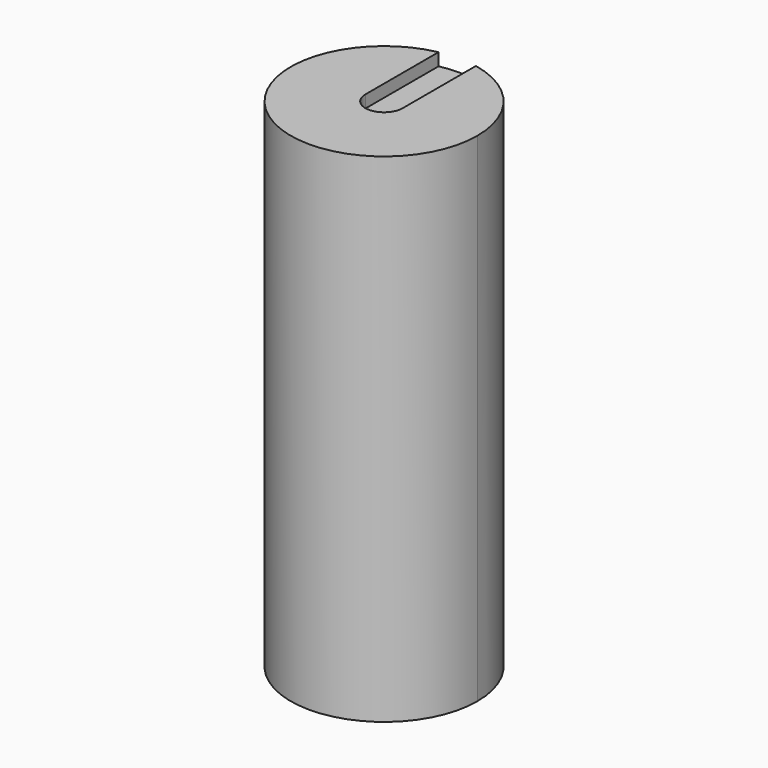
from build123d import *

# Parameters (mm, degrees)
F1_DEPTH = 40
F2_DEPTH = 1
F4_DEPTH = 1


with BuildPart() as f1:
    # F0 (on Top) → F1 (new body)
    with BuildSketch(Plane.XY):
        with BuildLine():
            ThreePointArc((-1.5, 7.3484692283), (-4.7434164903, -5.8094750193), (7.5, 0))
            ThreePointArc((7.5, 0), (5.8094750193, 4.7434164903), (1.5, 7.3484692283))
            Line((1.5, 7.3484692283), (1.5, 0))
            ThreePointArc((1.5, 0), (0, -1.5), (-1.5, 0))
            Line((-1.5, 0), (-1.5, 7.3484692283))
        make_face()
        with BuildLine():
            Line((1.5, 0), (1.5, 7.3484692283))
            ThreePointArc((1.5, 7.3484692283), (0, 7.5), (-1.5, 7.3484692283))
            Line((-1.5, 7.3484692283), (-1.5, 0))
            ThreePointArc((-1.5, 0), (0, -1.5), (1.5, 0))
        make_face()
    extrude(amount=F1_DEPTH)

    # F0 (on Top) → F2 (cut)
    with BuildSketch(Plane.XY):
        with BuildLine():
            Line((1.5, 0), (1.5, 7.3484692283))
            ThreePointArc((1.5, 7.3484692283), (0, 7.5), (-1.5, 7.3484692283))
            Line((-1.5, 7.3484692283), (-1.5, 0))
            ThreePointArc((-1.5, 0), (0, -1.5), (1.5, 0))
        make_face()
    extrude(amount=F2_DEPTH, mode=Mode.SUBTRACT)

    # F3 (on face) → F4 (cut)
    with BuildSketch(Plane.XY.offset(40)):
        with BuildLine():
            ThreePointArc((-1.5, 0), (0, -1.5), (1.5, 0))
            Line((1.5, 0), (1.5, 7.3484692283))
            ThreePointArc((1.5, 7.3484692283), (0, 7.5), (-1.5, 7.3484692283))
            Line((-1.5, 7.3484692283), (-1.5, 0))
        make_face()
    extrude(amount=-F4_DEPTH, mode=Mode.SUBTRACT)


solid = f1.part
